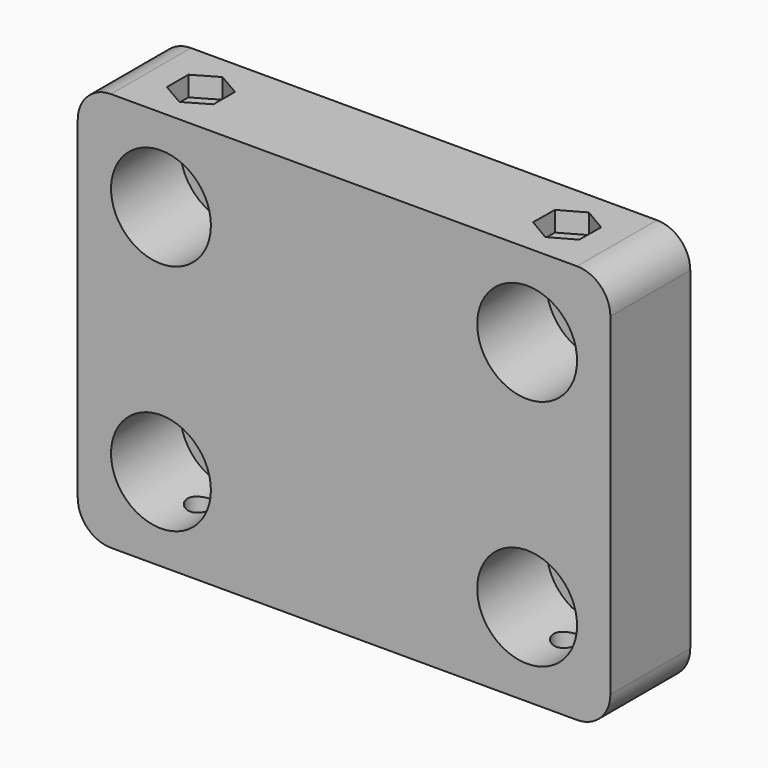
from build123d import *

# Parameters (mm, degrees)
F1_DEPTH  = 15
F2_R      = 7.5
F3_DEPTH  = 13
F4_R      = 2
F5_DEPTH  = 6
F7_DEPTH  = 3
F8_R      = 2
F9_DEPTH  = 6
F11_DEPTH = 3


with BuildPart() as f1:
    # F0 (on Front) → F1 (new body)
    with BuildSketch(Plane.XZ):
        with BuildLine():
            Line((-33.380991, 18.559887), (-103.380991, 18.559887))
            ThreePointArc((-103.380991, 18.559887), (-106.916525, 17.095421), (-108.380991, 13.559887))
            Line((-108.380991, 13.559887), (-108.380991, -36.440113))
            ThreePointArc((-108.380991, -36.440113), (-106.916525, -39.975647), (-103.380991, -41.440113))
            Line((-103.380991, -41.440113), (-33.380991, -41.440113))
            ThreePointArc((-33.380991, -41.440113), (-29.845457, -39.975647), (-28.380991, -36.440113))
            Line((-28.380991, -36.440113), (-28.380991, 13.559887))
            ThreePointArc((-28.380991, 13.559887), (-29.845457, 17.095421), (-33.380991, 18.559887))
        make_face()
    extrude(amount=F1_DEPTH)

    # F2 (on face) → F3 (cut)
    with BuildSketch(Plane.XZ.offset(15)):
        with Locations((-95.880991, 6.059887)):
            Circle(F2_R)
        with Locations((-95.880991, -28.940113)):
            Circle(F2_R)
        with Locations((-40.880991, 6.059887)):
            Circle(F2_R)
        with Locations((-40.880991, -28.940113)):
            Circle(F2_R)
    extrude(amount=-F3_DEPTH, mode=Mode.SUBTRACT)

    # F4 (on face) → F5 (cut)
    with BuildSketch(Plane.XY.offset(18.559887)):
        with Locations((-40.880991, -7.5)):
            Circle(F4_R)
        with Locations((-95.880991, -7.5)):
            Circle(F4_R)
    extrude(amount=-F5_DEPTH, mode=Mode.SUBTRACT)

    # F6 (on face) → F7 (cut)
    with BuildSketch(Plane.XY.offset(18.559887)):
        Polygon((-92.380991, -9.520726), (-92.380991, -5.479274), (-95.880991, -3.458548), (-99.380991, -5.479274), (-99.380991, -9.520726), (-95.880991, -11.541452), align=None)
        Polygon((-40.929128, -11.541165), (-37.405308, -9.56227), (-37.357171, -5.521105), (-40.832854, -3.458835), (-44.356675, -5.43773), (-44.404811, -9.478895), align=None)
    extrude(amount=-F7_DEPTH, mode=Mode.SUBTRACT)

    # F8 (on face) → F9 (cut)
    with BuildSketch(Plane(origin=(0, 0, -41.440113), x_dir=(1, 0, 0), z_dir=(0, 0, -1))):
        with Locations((-95.880991, 7.5)):
            Circle(F8_R)
        with Locations((-40.880991, 7.5)):
            Circle(F8_R)
    extrude(amount=-F9_DEPTH, mode=Mode.SUBTRACT)

    # F10 (on face) → F11 (cut)
    with BuildSketch(Plane(origin=(0, 0, -41.440113), x_dir=(1, 0, 0), z_dir=(0, 0, -1))):
        Polygon((-92.380991, 5.479274), (-92.380991, 9.520726), (-95.880991, 11.541452), (-99.380991, 9.520726), (-99.380991, 5.479274), (-95.880991, 3.458548), align=None)
        Polygon((-37.380991, 5.479274), (-37.380991, 9.520726), (-40.880991, 11.541452), (-44.380991, 9.520726), (-44.380991, 5.479274), (-40.880991, 3.458548), align=None)
    extrude(amount=-F11_DEPTH, mode=Mode.SUBTRACT)


solid = f1.part
